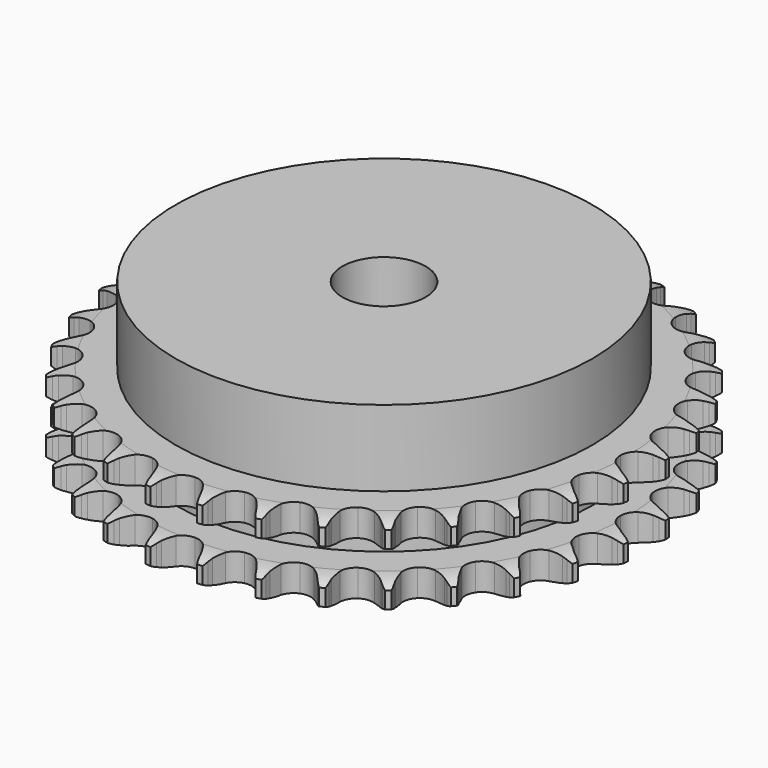
from build123d import *

# Parameters (mm, degrees)
PAD_DEPTH         = 15.4
SKETCH001_R       = 40
PAD001_DEPTH      = 30
SKETCH002_R       = 8
POCKET_DEPTH      = 0.001
POCKET_DEPTH_BACK = 30.001


with BuildPart() as part:
    # Sprocket → Pad (new body)
    with BuildSketch(Plane.XY):
        with BuildLine():
            ThreePointArc((-5.042302, 51.195355), (-4.453046, 50.412832), (-4.022448, 49.532973))
            Line((-4.022448, 49.532973), (-3.71269, 48.709966))
            ThreePointArc((-3.71269, 48.709966), (-3.220972, 47.640279), (-2.583007, 46.650826))
            ThreePointArc((-2.583007, 46.650826), (-1.443913, 45.700293), (0, 45.359466))
            ThreePointArc((0, 45.359466), (1.443913, 45.700293), (2.583007, 46.650826))
            ThreePointArc((2.583007, 46.650826), (3.220972, 47.640279), (3.71269, 48.709966))
            Line((3.71269, 48.709966), (4.022448, 49.532973))
            ThreePointArc((4.022448, 49.532973), (4.453046, 50.412832), (5.042302, 51.195355))
            ThreePointArc((5.042302, 51.195355), (5.467574, 50.312909), (5.718245, 49.365952))
            Line((5.718245, 49.365952), (5.861491, 48.498327))
            ThreePointArc((5.861491, 48.498327), (6.135075, 47.353265), (6.567749, 46.258363))
            ThreePointArc((6.567749, 46.258363), (7.499516, 45.103868), (8.849193, 44.487896))
            ThreePointArc((8.849193, 44.487896), (10.331853, 44.540482), (11.6345, 45.250523))
            Line((11.6345, 45.250523), (13.144195, 47.049707))
            ThreePointArc((13.144195, 47.049707), (13.366492, 47.429236), (13.608562, 47.79647))
            ThreePointArc((13.608562, 47.79647), (14.202537, 48.575417), (14.933134, 49.227946))
            ThreePointArc((14.933134, 49.227946), (15.178078, 48.27949), (15.23919, 47.301824))
            Line((15.23919, 47.301824), (15.210418, 46.422925))
            ThreePointArc((15.210418, 46.422925), (15.255355, 45.246491), (15.46611, 44.088217))
            ThreePointArc((15.46611, 44.088217), (16.154743, 42.774127), (17.358316, 41.906682))
            ThreePointArc((17.358316, 41.906682), (18.822747, 41.669004), (20.238886, 42.111269))
            Line((20.238886, 42.111269), (22.070576, 43.581355))
            ThreePointArc((22.070576, 43.581355), (22.362644, 43.910224), (22.671706, 44.223176))
            ThreePointArc((22.671706, 44.223176), (23.406233, 44.871276), (24.250094, 45.368735))
            ThreePointArc((24.250094, 45.368735), (24.305296, 44.390717), (24.174502, 43.419915))
            Line((24.174502, 43.419915), (23.974818, 42.563517))
            ThreePointArc((23.974818, 42.563517), (23.78938, 41.40092), (23.770118, 40.223786))
            ThreePointArc((23.770118, 40.223786), (24.189153, 38.8006), (25.200369, 37.715017))
            ThreePointArc((25.200369, 37.715017), (26.590292, 37.19621), (28.065502, 37.353702))
            Line((28.065502, 37.353702), (30.148796, 38.438196))
            ThreePointArc((30.148796, 38.438196), (30.499412, 38.703765), (30.863589, 38.950409))
            ThreePointArc((30.863589, 38.950409), (31.710441, 39.442758), (32.635136, 39.766029))
            ThreePointArc((32.635136, 39.766029), (32.498476, 38.796034), (32.180801, 37.869402))
            Line((32.180801, 37.869402), (31.817878, 37.068416))
            ThreePointArc((31.817878, 37.068416), (31.409193, 35.964335), (31.160653, 34.813577))
            ThreePointArc((31.160653, 34.813577), (31.293987, 33.335988), (32.073986, 32.073986))
            ThreePointArc((32.073986, 32.073986), (33.335988, 31.293987), (34.813577, 31.160653))
            Line((34.813577, 31.160653), (37.068416, 31.817878))
            ThreePointArc((37.068416, 31.817878), (37.464104, 32.009943), (37.869402, 32.180801))
            ThreePointArc((37.869402, 32.180801), (38.796034, 32.498476), (39.766029, 32.635136))
            ThreePointArc((39.766029, 32.635136), (39.442758, 31.710441), (38.950409, 30.863589))
            Line((38.950409, 30.863589), (38.438196, 30.148796))
            ThreePointArc((38.438196, 30.148796), (37.821968, 29.145661), (37.353702, 28.065502))
            ThreePointArc((37.353702, 28.065502), (37.19621, 26.590292), (37.715017, 25.200369))
            ThreePointArc((37.715017, 25.200369), (38.8006, 24.189153), (40.223786, 23.770118))
            Line((40.223786, 23.770118), (42.563517, 23.974818))
            ThreePointArc((42.563517, 23.974818), (42.989072, 24.085997), (43.419915, 24.174502))
            ThreePointArc((43.419915, 24.174502), (44.390717, 24.305296), (45.368735, 24.250094))
            ThreePointArc((45.368735, 24.250094), (44.871276, 23.406233), (44.223176, 22.671706))
            Line((44.223176, 22.671706), (43.581355, 22.070576))
            ThreePointArc((43.581355, 22.070576), (42.781266, 21.206936), (42.111269, 20.238886))
            ThreePointArc((42.111269, 20.238886), (41.669004, 18.822747), (41.906682, 17.358316))
            ThreePointArc((41.906682, 17.358316), (42.774127, 16.154743), (44.088217, 15.46611))
            Line((44.088217, 15.46611), (46.422925, 15.210418))
            ThreePointArc((46.422925, 15.210418), (46.861994, 15.23644), (47.301824, 15.23919))
            ThreePointArc((47.301824, 15.23919), (48.27949, 15.178078), (49.227946, 14.933134))
            ThreePointArc((49.227946, 14.933134), (48.575417, 14.202537), (47.79647, 13.608562))
            Line((47.79647, 13.608562), (47.049707, 13.144195))
            ThreePointArc((47.049707, 13.144195), (46.096504, 12.453239), (45.250523, 11.6345))
            ThreePointArc((45.250523, 11.6345), (44.540482, 10.331853), (44.487896, 8.849193))
            ThreePointArc((44.487896, 8.849193), (45.103868, 7.499516), (46.258363, 6.567749))
            Line((46.258363, 6.567749), (48.498327, 5.861491))
            ThreePointArc((48.498327, 5.861491), (48.934036, 5.801354), (49.365952, 5.718245))
            ThreePointArc((49.365952, 5.718245), (50.312909, 5.467574), (51.195355, 5.042302))
            ThreePointArc((51.195355, 5.042302), (50.412832, 4.453046), (49.532973, 4.022448))
            Line((49.532973, 4.022448), (48.709966, 3.71269))
            ThreePointArc((48.709966, 3.71269), (47.640279, 3.220972), (46.650826, 2.583007))
            ThreePointArc((46.650826, 2.583007), (45.700293, 1.443913), (45.359466, 0))
            ThreePointArc((45.359466, 0), (45.700293, -1.443913), (46.650826, -2.583007))
            Line((46.650826, -2.583007), (48.709966, -3.71269))
            ThreePointArc((48.709966, -3.71269), (49.12557, -3.856674), (49.532973, -4.022448))
            ThreePointArc((49.532973, -4.022448), (50.412832, -4.453046), (51.195355, -5.042302))
            ThreePointArc((51.195355, -5.042302), (50.312909, -5.467574), (49.365952, -5.718245))
            Line((49.365952, -5.718245), (48.498327, -5.861491))
            ThreePointArc((48.498327, -5.861491), (47.353265, -6.135075), (46.258363, -6.567749))
            ThreePointArc((46.258363, -6.567749), (45.103868, -7.499516), (44.487896, -8.849193))
            ThreePointArc((44.487896, -8.849193), (44.540482, -10.331853), (45.250523, -11.6345))
            Line((45.250523, -11.6345), (47.049707, -13.144195))
            ThreePointArc((47.049707, -13.144195), (47.429236, -13.366492), (47.79647, -13.608562))
            ThreePointArc((47.79647, -13.608562), (48.575417, -14.202537), (49.227946, -14.933134))
            ThreePointArc((49.227946, -14.933134), (48.27949, -15.178078), (47.301824, -15.23919))
            Line((47.301824, -15.23919), (46.422925, -15.210418))
            ThreePointArc((46.422925, -15.210418), (45.246491, -15.255355), (44.088217, -15.46611))
            ThreePointArc((44.088217, -15.46611), (42.774127, -16.154743), (41.906682, -17.358316))
            ThreePointArc((41.906682, -17.358316), (41.669004, -18.822747), (42.111269, -20.238886))
            Line((42.111269, -20.238886), (43.581355, -22.070576))
            ThreePointArc((43.581355, -22.070576), (43.910224, -22.362644), (44.223176, -22.671706))
            ThreePointArc((44.223176, -22.671706), (44.871276, -23.406233), (45.368735, -24.250094))
            ThreePointArc((45.368735, -24.250094), (44.390717, -24.305296), (43.419915, -24.174502))
            Line((43.419915, -24.174502), (42.563517, -23.974818))
            ThreePointArc((42.563517, -23.974818), (41.40092, -23.78938), (40.223786, -23.770118))
            ThreePointArc((40.223786, -23.770118), (38.8006, -24.189153), (37.715017, -25.200369))
            ThreePointArc((37.715017, -25.200369), (37.19621, -26.590292), (37.353702, -28.065502))
            Line((37.353702, -28.065502), (38.438196, -30.148796))
            ThreePointArc((38.438196, -30.148796), (38.703765, -30.499412), (38.950409, -30.863589))
            ThreePointArc((38.950409, -30.863589), (39.442758, -31.710441), (39.766029, -32.635136))
            ThreePointArc((39.766029, -32.635136), (38.796034, -32.498476), (37.869402, -32.180801))
            Line((37.869402, -32.180801), (37.068416, -31.817878))
            ThreePointArc((37.068416, -31.817878), (35.964335, -31.409193), (34.813577, -31.160653))
            ThreePointArc((34.813577, -31.160653), (33.335988, -31.293987), (32.073986, -32.073986))
            ThreePointArc((32.073986, -32.073986), (31.293987, -33.335988), (31.160653, -34.813577))
            Line((31.160653, -34.813577), (31.817878, -37.068416))
            ThreePointArc((31.817878, -37.068416), (32.009943, -37.464104), (32.180801, -37.869402))
            ThreePointArc((32.180801, -37.869402), (32.498476, -38.796034), (32.635136, -39.766029))
            ThreePointArc((32.635136, -39.766029), (31.710441, -39.442758), (30.863589, -38.950409))
            Line((30.863589, -38.950409), (30.148796, -38.438196))
            ThreePointArc((30.148796, -38.438196), (29.145661, -37.821968), (28.065502, -37.353702))
            ThreePointArc((28.065502, -37.353702), (26.590292, -37.19621), (25.200369, -37.715017))
            ThreePointArc((25.200369, -37.715017), (24.189153, -38.8006), (23.770118, -40.223786))
            Line((23.770118, -40.223786), (23.974818, -42.563517))
            ThreePointArc((23.974818, -42.563517), (24.085997, -42.989072), (24.174502, -43.419915))
            ThreePointArc((24.174502, -43.419915), (24.305296, -44.390717), (24.250094, -45.368735))
            ThreePointArc((24.250094, -45.368735), (23.406233, -44.871276), (22.671706, -44.223176))
            Line((22.671706, -44.223176), (22.070576, -43.581355))
            ThreePointArc((22.070576, -43.581355), (21.206936, -42.781266), (20.238886, -42.111269))
            ThreePointArc((20.238886, -42.111269), (18.822747, -41.669004), (17.358316, -41.906682))
            ThreePointArc((17.358316, -41.906682), (16.154743, -42.774127), (15.46611, -44.088217))
            Line((15.46611, -44.088217), (15.210418, -46.422925))
            ThreePointArc((15.210418, -46.422925), (15.23644, -46.861994), (15.23919, -47.301824))
            ThreePointArc((15.23919, -47.301824), (15.178078, -48.27949), (14.933134, -49.227946))
            ThreePointArc((14.933134, -49.227946), (14.202537, -48.575417), (13.608562, -47.79647))
            Line((13.608562, -47.79647), (13.144195, -47.049707))
            ThreePointArc((13.144195, -47.049707), (12.453239, -46.096504), (11.6345, -45.250523))
            ThreePointArc((11.6345, -45.250523), (10.331853, -44.540482), (8.849193, -44.487896))
            ThreePointArc((8.849193, -44.487896), (7.499516, -45.103868), (6.567749, -46.258363))
            Line((6.567749, -46.258363), (5.861491, -48.498327))
            ThreePointArc((5.861491, -48.498327), (5.801354, -48.934036), (5.718245, -49.365952))
            ThreePointArc((5.718245, -49.365952), (5.467574, -50.312909), (5.042302, -51.195355))
            ThreePointArc((5.042302, -51.195355), (4.453046, -50.412832), (4.022448, -49.532973))
            Line((4.022448, -49.532973), (3.71269, -48.709966))
            ThreePointArc((3.71269, -48.709966), (3.220972, -47.640279), (2.583007, -46.650826))
            ThreePointArc((2.583007, -46.650826), (1.443913, -45.700293), (0, -45.359466))
            ThreePointArc((0, -45.359466), (-1.443913, -45.700293), (-2.583007, -46.650826))
            Line((-2.583007, -46.650826), (-3.71269, -48.709966))
            ThreePointArc((-3.71269, -48.709966), (-3.856674, -49.12557), (-4.022448, -49.532973))
            ThreePointArc((-4.022448, -49.532973), (-4.453046, -50.412832), (-5.042302, -51.195355))
            ThreePointArc((-5.042302, -51.195355), (-5.467574, -50.312909), (-5.718245, -49.365952))
            Line((-5.718245, -49.365952), (-5.861491, -48.498327))
            ThreePointArc((-5.861491, -48.498327), (-6.135075, -47.353265), (-6.567749, -46.258363))
            ThreePointArc((-6.567749, -46.258363), (-7.499516, -45.103868), (-8.849193, -44.487896))
            ThreePointArc((-8.849193, -44.487896), (-10.331853, -44.540482), (-11.6345, -45.250523))
            Line((-11.6345, -45.250523), (-13.144195, -47.049707))
            ThreePointArc((-13.144195, -47.049707), (-13.366492, -47.429236), (-13.608562, -47.79647))
            ThreePointArc((-13.608562, -47.79647), (-14.202537, -48.575417), (-14.933134, -49.227946))
            ThreePointArc((-14.933134, -49.227946), (-15.178078, -48.27949), (-15.23919, -47.301824))
            Line((-15.23919, -47.301824), (-15.210418, -46.422925))
            ThreePointArc((-15.210418, -46.422925), (-15.255355, -45.246491), (-15.46611, -44.088217))
            ThreePointArc((-15.46611, -44.088217), (-16.154743, -42.774127), (-17.358316, -41.906682))
            ThreePointArc((-17.358316, -41.906682), (-18.822747, -41.669004), (-20.238886, -42.111269))
            Line((-20.238886, -42.111269), (-22.070576, -43.581355))
            ThreePointArc((-22.070576, -43.581355), (-22.362644, -43.910224), (-22.671706, -44.223176))
            ThreePointArc((-22.671706, -44.223176), (-23.406233, -44.871276), (-24.250094, -45.368735))
            ThreePointArc((-24.250094, -45.368735), (-24.305296, -44.390717), (-24.174502, -43.419915))
            Line((-24.174502, -43.419915), (-23.974818, -42.563517))
            ThreePointArc((-23.974818, -42.563517), (-23.78938, -41.40092), (-23.770118, -40.223786))
            ThreePointArc((-23.770118, -40.223786), (-24.189153, -38.8006), (-25.200369, -37.715017))
            ThreePointArc((-25.200369, -37.715017), (-26.590292, -37.19621), (-28.065502, -37.353702))
            Line((-28.065502, -37.353702), (-30.148796, -38.438196))
            ThreePointArc((-30.148796, -38.438196), (-30.499412, -38.703765), (-30.863589, -38.950409))
            ThreePointArc((-30.863589, -38.950409), (-31.710441, -39.442758), (-32.635136, -39.766029))
            ThreePointArc((-32.635136, -39.766029), (-32.498476, -38.796034), (-32.180801, -37.869402))
            Line((-32.180801, -37.869402), (-31.817878, -37.068416))
            ThreePointArc((-31.817878, -37.068416), (-31.409193, -35.964335), (-31.160653, -34.813577))
            ThreePointArc((-31.160653, -34.813577), (-31.293987, -33.335988), (-32.073986, -32.073986))
            ThreePointArc((-32.073986, -32.073986), (-33.335988, -31.293987), (-34.813577, -31.160653))
            Line((-34.813577, -31.160653), (-37.068416, -31.817878))
            ThreePointArc((-37.068416, -31.817878), (-37.464104, -32.009943), (-37.869402, -32.180801))
            ThreePointArc((-37.869402, -32.180801), (-38.796034, -32.498476), (-39.766029, -32.635136))
            ThreePointArc((-39.766029, -32.635136), (-39.442758, -31.710441), (-38.950409, -30.863589))
            Line((-38.950409, -30.863589), (-38.438196, -30.148796))
            ThreePointArc((-38.438196, -30.148796), (-37.821968, -29.145661), (-37.353702, -28.065502))
            ThreePointArc((-37.353702, -28.065502), (-37.19621, -26.590292), (-37.715017, -25.200369))
            ThreePointArc((-37.715017, -25.200369), (-38.8006, -24.189153), (-40.223786, -23.770118))
            Line((-40.223786, -23.770118), (-42.563517, -23.974818))
            ThreePointArc((-42.563517, -23.974818), (-42.989072, -24.085997), (-43.419915, -24.174502))
            ThreePointArc((-43.419915, -24.174502), (-44.390717, -24.305296), (-45.368735, -24.250094))
            ThreePointArc((-45.368735, -24.250094), (-44.871276, -23.406233), (-44.223176, -22.671706))
            Line((-44.223176, -22.671706), (-43.581355, -22.070576))
            ThreePointArc((-43.581355, -22.070576), (-42.781266, -21.206936), (-42.111269, -20.238886))
            ThreePointArc((-42.111269, -20.238886), (-41.669004, -18.822747), (-41.906682, -17.358316))
            ThreePointArc((-41.906682, -17.358316), (-42.774127, -16.154743), (-44.088217, -15.46611))
            Line((-44.088217, -15.46611), (-46.422925, -15.210418))
            ThreePointArc((-46.422925, -15.210418), (-46.861994, -15.23644), (-47.301824, -15.23919))
            ThreePointArc((-47.301824, -15.23919), (-48.27949, -15.178078), (-49.227946, -14.933134))
            ThreePointArc((-49.227946, -14.933134), (-48.575417, -14.202537), (-47.79647, -13.608562))
            Line((-47.79647, -13.608562), (-47.049707, -13.144195))
            ThreePointArc((-47.049707, -13.144195), (-46.096504, -12.453239), (-45.250523, -11.6345))
            ThreePointArc((-45.250523, -11.6345), (-44.540482, -10.331853), (-44.487896, -8.849193))
            ThreePointArc((-44.487896, -8.849193), (-45.103868, -7.499516), (-46.258363, -6.567749))
            Line((-46.258363, -6.567749), (-48.498327, -5.861491))
            ThreePointArc((-48.498327, -5.861491), (-48.934036, -5.801354), (-49.365952, -5.718245))
            ThreePointArc((-49.365952, -5.718245), (-50.312909, -5.467574), (-51.195355, -5.042302))
            ThreePointArc((-51.195355, -5.042302), (-50.412832, -4.453046), (-49.532973, -4.022448))
            Line((-49.532973, -4.022448), (-48.709966, -3.71269))
            ThreePointArc((-48.709966, -3.71269), (-47.640279, -3.220972), (-46.650826, -2.583007))
            ThreePointArc((-46.650826, -2.583007), (-45.700293, -1.443913), (-45.359466, 0))
            ThreePointArc((-45.359466, 0), (-45.700293, 1.443913), (-46.650826, 2.583007))
            Line((-46.650826, 2.583007), (-48.709966, 3.71269))
            ThreePointArc((-48.709966, 3.71269), (-49.12557, 3.856674), (-49.532973, 4.022448))
            ThreePointArc((-49.532973, 4.022448), (-50.412832, 4.453046), (-51.195355, 5.042302))
            ThreePointArc((-51.195355, 5.042302), (-50.312909, 5.467574), (-49.365952, 5.718245))
            Line((-49.365952, 5.718245), (-48.498327, 5.861491))
            ThreePointArc((-48.498327, 5.861491), (-47.353265, 6.135075), (-46.258363, 6.567749))
            ThreePointArc((-46.258363, 6.567749), (-45.103868, 7.499516), (-44.487896, 8.849193))
            ThreePointArc((-44.487896, 8.849193), (-44.540482, 10.331853), (-45.250523, 11.6345))
            Line((-45.250523, 11.6345), (-47.049707, 13.144195))
            ThreePointArc((-47.049707, 13.144195), (-47.429236, 13.366492), (-47.79647, 13.608562))
            ThreePointArc((-47.79647, 13.608562), (-48.575417, 14.202537), (-49.227946, 14.933134))
            ThreePointArc((-49.227946, 14.933134), (-48.27949, 15.178078), (-47.301824, 15.23919))
            Line((-47.301824, 15.23919), (-46.422925, 15.210418))
            ThreePointArc((-46.422925, 15.210418), (-45.246491, 15.255355), (-44.088217, 15.46611))
            ThreePointArc((-44.088217, 15.46611), (-42.774127, 16.154743), (-41.906682, 17.358316))
            ThreePointArc((-41.906682, 17.358316), (-41.669004, 18.822747), (-42.111269, 20.238886))
            Line((-42.111269, 20.238886), (-43.581355, 22.070576))
            ThreePointArc((-43.581355, 22.070576), (-43.910224, 22.362644), (-44.223176, 22.671706))
            ThreePointArc((-44.223176, 22.671706), (-44.871276, 23.406233), (-45.368735, 24.250094))
            ThreePointArc((-45.368735, 24.250094), (-44.390717, 24.305296), (-43.419915, 24.174502))
            Line((-43.419915, 24.174502), (-42.563517, 23.974818))
            ThreePointArc((-42.563517, 23.974818), (-41.40092, 23.78938), (-40.223786, 23.770118))
            ThreePointArc((-40.223786, 23.770118), (-38.8006, 24.189153), (-37.715017, 25.200369))
            ThreePointArc((-37.715017, 25.200369), (-37.19621, 26.590292), (-37.353702, 28.065502))
            Line((-37.353702, 28.065502), (-38.438196, 30.148796))
            ThreePointArc((-38.438196, 30.148796), (-38.703765, 30.499412), (-38.950409, 30.863589))
            ThreePointArc((-38.950409, 30.863589), (-39.442758, 31.710441), (-39.766029, 32.635136))
            ThreePointArc((-39.766029, 32.635136), (-38.796034, 32.498476), (-37.869402, 32.180801))
            Line((-37.869402, 32.180801), (-37.068416, 31.817878))
            ThreePointArc((-37.068416, 31.817878), (-35.964335, 31.409193), (-34.813577, 31.160653))
            ThreePointArc((-34.813577, 31.160653), (-33.335988, 31.293987), (-32.073986, 32.073986))
            ThreePointArc((-32.073986, 32.073986), (-31.293987, 33.335988), (-31.160653, 34.813577))
            Line((-31.160653, 34.813577), (-31.817878, 37.068416))
            ThreePointArc((-31.817878, 37.068416), (-32.009943, 37.464104), (-32.180801, 37.869402))
            ThreePointArc((-32.180801, 37.869402), (-32.498476, 38.796034), (-32.635136, 39.766029))
            ThreePointArc((-32.635136, 39.766029), (-31.710441, 39.442758), (-30.863589, 38.950409))
            Line((-30.863589, 38.950409), (-30.148796, 38.438196))
            ThreePointArc((-30.148796, 38.438196), (-29.145661, 37.821968), (-28.065502, 37.353702))
            ThreePointArc((-28.065502, 37.353702), (-26.590292, 37.19621), (-25.200369, 37.715017))
            ThreePointArc((-25.200369, 37.715017), (-24.189153, 38.8006), (-23.770118, 40.223786))
            Line((-23.770118, 40.223786), (-23.974818, 42.563517))
            ThreePointArc((-23.974818, 42.563517), (-24.085997, 42.989072), (-24.174502, 43.419915))
            ThreePointArc((-24.174502, 43.419915), (-24.305296, 44.390717), (-24.250094, 45.368735))
            ThreePointArc((-24.250094, 45.368735), (-23.406233, 44.871276), (-22.671706, 44.223176))
            Line((-22.671706, 44.223176), (-22.070576, 43.581355))
            ThreePointArc((-22.070576, 43.581355), (-21.206936, 42.781266), (-20.238886, 42.111269))
            ThreePointArc((-20.238886, 42.111269), (-18.822747, 41.669004), (-17.358316, 41.906682))
            ThreePointArc((-17.358316, 41.906682), (-16.154743, 42.774127), (-15.46611, 44.088217))
            Line((-15.46611, 44.088217), (-15.210418, 46.422925))
            ThreePointArc((-15.210418, 46.422925), (-15.23644, 46.861994), (-15.23919, 47.301824))
            ThreePointArc((-15.23919, 47.301824), (-15.178078, 48.27949), (-14.933134, 49.227946))
            ThreePointArc((-14.933134, 49.227946), (-14.202537, 48.575417), (-13.608562, 47.79647))
            Line((-13.608562, 47.79647), (-13.144195, 47.049707))
            ThreePointArc((-13.144195, 47.049707), (-12.453239, 46.096504), (-11.6345, 45.250523))
            ThreePointArc((-11.6345, 45.250523), (-10.331853, 44.540482), (-8.849193, 44.487896))
            ThreePointArc((-8.849193, 44.487896), (-7.499516, 45.103868), (-6.567749, 46.258363))
            Line((-6.567749, 46.258363), (-5.861491, 48.498327))
            ThreePointArc((-5.861491, 48.498327), (-5.801354, 48.934036), (-5.718245, 49.365952))
            ThreePointArc((-5.718245, 49.365952), (-5.467574, 50.312909), (-5.042302, 51.195355))
        make_face()
    extrude(amount=PAD_DEPTH)

    # Sketch → Groove (revolve, cut)
    with BuildSketch(Plane.XZ):
        with BuildLine():
            ThreePointArc((46.291101, 0), (48.527169, 0.253206), (50.65, 1))
            Line((50.65, 1), (50.65, 4.2))
            ThreePointArc((50.65, 4.2), (48.527169, 4.946794), (46.291101, 5.2))
            Line((40, 5.2), (46.291101, 5.2))
            Line((40, 10.2), (40, 5.2))
            Line((46.291101, 10.2), (40, 10.2))
            ThreePointArc((46.291101, 10.2), (48.527169, 10.453206), (50.65, 11.2))
            Line((50.65, 11.2), (50.65, 14.4))
            ThreePointArc((50.65, 14.4), (48.527169, 15.146794), (46.291101, 15.4))
            Line((46.291101, 15.4), (56.291101, 15.4))
            Line((56.291101, 15.4), (56.291101, 0))
            Line((46.291101, 0), (56.291101, 0))
        make_face()
    revolve(axis=Axis((0, 0, 0), (0, 0, 1)), mode=Mode.SUBTRACT)

    # Sketch001 → Pad001 (join)
    with BuildSketch(Plane.XY):
        Circle(SKETCH001_R)
    extrude(amount=PAD001_DEPTH)

    # Sketch002 → Pocket (cut, two sides)
    with BuildSketch(Plane.XY) as pocket_sk:
        Circle(SKETCH002_R)
    extrude(amount=-POCKET_DEPTH, mode=Mode.SUBTRACT)
    extrude(pocket_sk.sketch, amount=POCKET_DEPTH_BACK, mode=Mode.SUBTRACT)


solid = part.part
